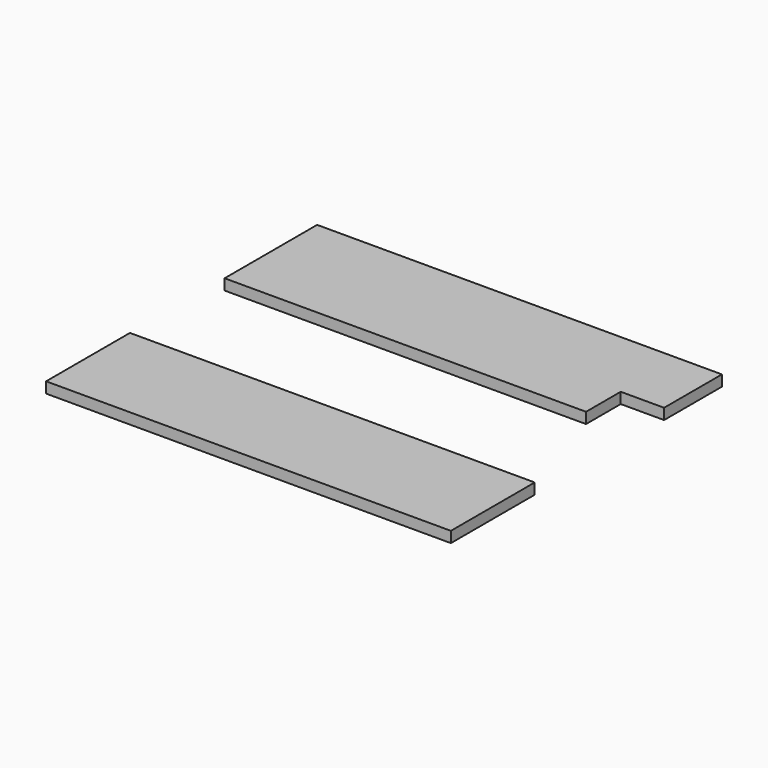
from build123d import *

# Parameters (mm, degrees)
F0_W     = 711.2
F0_H     = 203.2
F1_DEPTH = 19.05
F2_DEPTH = 19.05
F0_W_2   = 76.2
F0_H_2   = 76.2
F3_DEPTH = 19.05
F4_W     = 711.2
F4_H     = 19.05
F5_DEPTH = 19.051


with BuildPart() as f1:
    # F0 (on Top) → F1 (new body)
    with BuildSketch(Plane.XY):
        with Locations((171.622429, -1.776095)):
            Rectangle(F0_W, F0_H)
    extrude(amount=F1_DEPTH)

    # F4 (on face) → F5 (cut, through all)
    with BuildSketch(Plane.XY.offset(19.05)):
        with Locations((171.622429, 90.298905)):
            Rectangle(F4_W, F4_H)
    extrude(amount=-F5_DEPTH, mode=Mode.SUBTRACT)


with BuildPart() as f2:
    # F0 (on Top) → F2 (new body)
    with BuildSketch(Plane.XY):
        Polygon((-183.977571, 491.872239), (-183.977571, 288.672239), (451.022429, 288.672239), (451.022429, 364.872239), (527.222429, 364.872239), (527.222429, 491.872239), align=None)
    extrude(amount=F2_DEPTH)


with BuildPart() as f3:
    # F0 (on Top) → F3 (new body)
    with BuildSketch(Plane.XY):
        with Locations((489.122429, 326.772239)):
            Rectangle(F0_W_2, F0_H_2)
    extrude(amount=F3_DEPTH)


solid = Compound([f1.part, f2.part])
